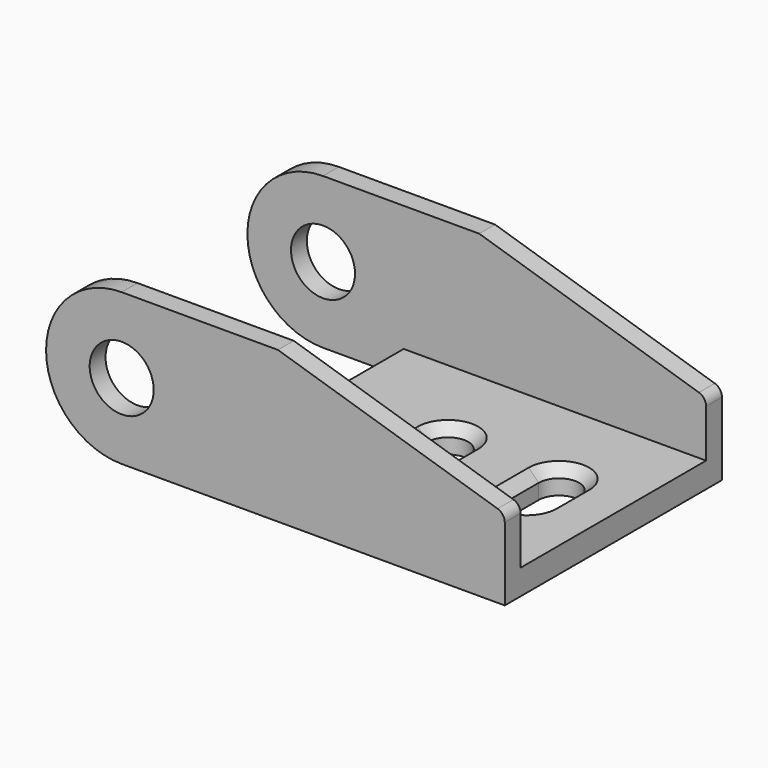
from build123d import *

# Parameters (mm, degrees)
SKETCH_R             = 3.175
PAD_DEPTH            = 13.462
SKETCH002_W          = 23
SKETCH002_H          = 13
POCKET_DEPTH         = 7.501
POCKET_DEPTH_BACK    = -38.001
SKETCH001_W          = 14
SKETCH001_H          = 23
POCKET001_DEPTH      = 7.501
POCKET001_DEPTH_BACK = -7.501
CHAMFER_SIZE         = 1.5
FILLET_R             = 1.016
FILLET001_R          = 1.016
CHAMFER001_SIZE      = 1
CHAMFER002_SIZE      = 1


with BuildPart() as part:
    # Sketch → Pad (new body, symmetric)
    with BuildSketch(Plane.XZ):
        with BuildLine():
            ThreePointArc((0, 7.5), (-7.5, 0), (0, -7.5))
            Line((38, -7.5), (0, -7.5))
            Line((38, 0.5), (38, -7.5))
            Line((15.5, 7.5), (38, 0.5))
            Line((0, 7.5), (15.5, 7.5))
        make_face()
        Circle(SKETCH_R, mode=Mode.SUBTRACT)
    extrude(amount=PAD_DEPTH, both=True)

    # Sketch002 → Pocket (cut, two sides)
    with BuildSketch(Plane.YZ) as pocket_sk:
        with Locations((0, 1.5)):
            Rectangle(SKETCH002_W, SKETCH002_H)
    extrude(amount=-POCKET_DEPTH, mode=Mode.SUBTRACT)
    extrude(pocket_sk.sketch, amount=-POCKET_DEPTH_BACK, mode=Mode.SUBTRACT)

    # Sketch001 → Pocket001 (cut, two sides)
    with BuildSketch(Plane.XY) as pocket001_sk:
        with Locations((-0.5, 0)):
            Rectangle(SKETCH001_W, SKETCH001_H)
        with BuildLine():
            Line((18, 2), (18, -2))
            ThreePointArc((18, -2), (20, -4), (22, -2))
            Line((22, -2), (22, 2))
            ThreePointArc((22, 2), (20, 4), (18, 2))
        make_face()
        with BuildLine():
            Line((29, 2), (29, -2))
            ThreePointArc((29, -2), (31, -4), (33, -2))
            Line((33, 2), (33, -2))
            ThreePointArc((33, 2), (31, 4), (29, 2))
        make_face()
    extrude(amount=-POCKET001_DEPTH, mode=Mode.SUBTRACT)
    extrude(pocket001_sk.sketch, amount=-POCKET001_DEPTH_BACK, mode=Mode.SUBTRACT)

    # Chamfer
    chamfer_edges = [part.edges().sort_by_distance(p)[0] for p in [
        (6.5, 0, -5),
    ]]
    chamfer(chamfer_edges, length=CHAMFER_SIZE)

    # Fillet
    fillet_edges = [part.edges().sort_by_distance(p)[0] for p in [
        (38, 12.481, 0.5),
    ]]
    fillet(fillet_edges, radius=FILLET_R)

    # Fillet001
    fillet001_edges = [part.edges().sort_by_distance(p)[0] for p in [
        (38, -12.481, 0.5),
    ]]
    fillet(fillet001_edges, radius=FILLET001_R)

    # Chamfer001
    chamfer001_edges = [part.edges().sort_by_distance(p)[0] for p in [
        (29, 0, -5),
        (31, 4, -5),
        (33, 0, -5),
        (31, -4, -5),
    ]]
    chamfer(chamfer001_edges, length=CHAMFER001_SIZE)

    # Chamfer002
    chamfer002_edges = [part.edges().sort_by_distance(p)[0] for p in [
        (22, 0, -5),
        (20, 4, -5),
        (18, 0, -5),
        (20, -4, -5),
    ]]
    chamfer(chamfer002_edges, length=CHAMFER002_SIZE)


solid = part.part
